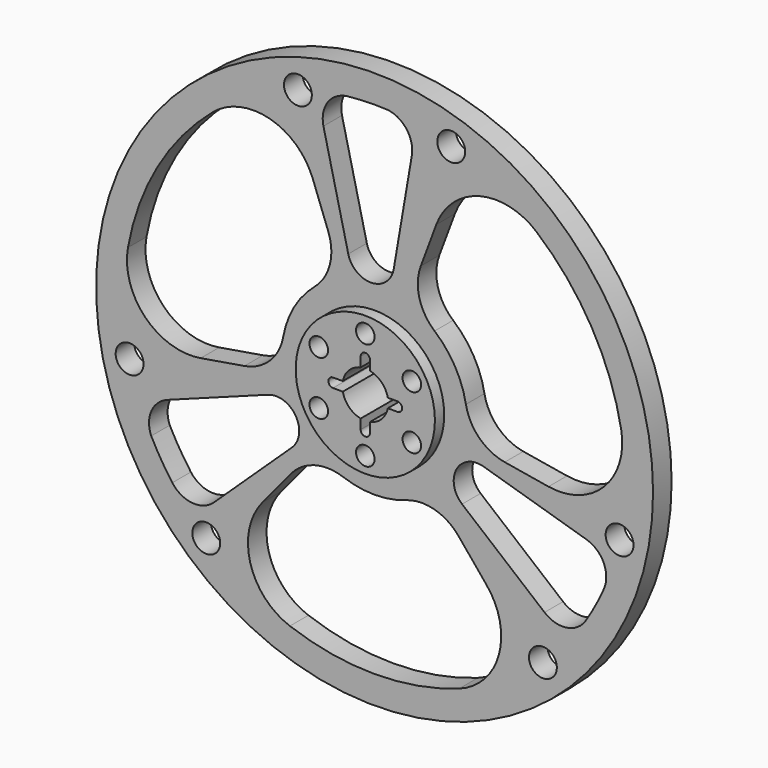
from build123d import *

# Parameters (mm, degrees)
F0_R     = 1524
F0_R_2   = 76.2
F0_R_3   = 381
F1_DEPTH = 63.5
F0_R_4   = 50.8
F2_DEPTH = 127


with BuildPart() as f1:
    # F0 (on Front) → F1 (new body, symmetric)
    with BuildSketch(Plane.XZ):
        Circle(F0_R)
        with Locations((-921.1333688435, -1016.2676206605)):
            Circle(F0_R_2, mode=Mode.SUBTRACT)
        with BuildLine():
            ThreePointArc((-583.5155455446, -215.8833205871), (-431.558837808, -267.9943460408), (-452.2256651945, -427.3031099108))
            Line((-452.2256651945, -427.3031099108), (-879.2271819871, -830.7721964865))
            ThreePointArc((-879.2271819871, -830.7721964865), (-997.7427837156, -871.7695093459), (-1106.8814705239, -809.9999816116))
            ThreePointArc((-1106.8814705239, -809.9999816116), (-1168.4092954393, -718.4053718695), (-1222.3754491891, -622.1614109054))
            ThreePointArc((-1222.3754491891, -622.1614109054), (-1221.6211491859, -501.6878897183), (-1133.6206323261, -419.4057694971))
            Line((-1133.6206323261, -419.4057694971), (-583.5155455446, -215.8833205871))
        make_face(mode=Mode.SUBTRACT)
        with Locations((-1340.6802609573, -289.5910873618)):
            Circle(F0_R_2, mode=Mode.SUBTRACT)
        with BuildLine():
            ThreePointArc((171.6616927457, -478.1174157502), (328.0180828106, -472.1449708565), (459.3380971304, -557.2216694947))
            Line((459.3380971304, -557.2216694947), (613.7334194013, -744.5181723875))
            ThreePointArc((613.7334194013, -744.5181723875), (680.450055377, -1056.720282291), (463.4865704134, -1290.9170225256))
            ThreePointArc((463.4865704134, -1290.9170225256), (0, -1371.6), (-463.4865704134, -1290.9170225256))
            ThreePointArc((-463.4865704134, -1290.9170225256), (-680.450055377, -1056.720282291), (-613.7334194013, -744.5181723875))
            Line((-613.7334194013, -744.5181723875), (-459.3380971304, -557.2216694947))
            ThreePointArc((-459.3380971304, -557.2216694947), (-328.0180828106, -472.1449708565), (-171.6616927457, -478.1174157502))
            ThreePointArc((-171.6616927457, -478.1174157502), (0, -508), (171.6616927457, -478.1174157502))
        make_face(mode=Mode.SUBTRACT)
        with Locations((921.1333688435, -1016.2676206605)):
            Circle(F0_R_2, mode=Mode.SUBTRACT)
        with BuildLine():
            ThreePointArc((478.7182126541, -397.3976256512), (447.8693306459, -239.743743749), (596.1681808961, -177.9873593464))
            Line((596.1681808961, -177.9873593464), (1159.0834179086, -346.0469770554))
            ThreePointArc((1159.0834179086, -346.0469770554), (1253.8459331961, -428.1858424674), (1254.9212964025, -553.5874816462))
            ThreePointArc((1254.9212964025, -553.5874816462), (1206.3619499739, -652.6694459336), (1149.995311693, -747.5274865075))
            ThreePointArc((1149.995311693, -747.5274865075), (1045.28503186, -807.1110041361), (930.0263670412, -772.0413811))
            Line((930.0263670412, -772.0413811), (478.7182126541, -397.3976256512))
        make_face(mode=Mode.SUBTRACT)
        with Locations((1340.6802609573, -289.5910873618)):
            Circle(F0_R_2, mode=Mode.SUBTRACT)
        with BuildLine():
            ThreePointArc((-252.8990727563, 676.4092957883), (-244.8804976255, 520.1444780429), (-328.2309816586, 387.7220946495))
            ThreePointArc((-328.2309816586, 387.7220946495), (-439.9409051225, 254), (-499.8926744043, 90.3953211007))
            ThreePointArc((-499.8926744043, 90.3953211007), (-572.8985804361, -47.9995071864), (-712.2371698868, -119.1876262936))
            Line((-712.2371698868, -119.1876262936), (-951.6383605674, -159.2496461593))
            ThreePointArc((-951.6383605674, -159.2496461593), (-1255.3716368467, -60.9268928175), (-1349.7102208917, 244.0673669719))
            ThreePointArc((-1349.7102208917, 244.0673669719), (-1187.8404438307, 685.8), (-886.2236504783, 1046.8496555537))
            ThreePointArc((-886.2236504783, 1046.8496555537), (-574.9215814697, 1117.6471751085), (-337.904941166, 903.7678185468))
            Line((-337.904941166, 903.7678185468), (-252.8990727563, 676.4092957883))
        make_face(mode=Mode.SUBTRACT)
        with BuildLine():
            ThreePointArc((104.7973328905, 613.2809462384), (-16.3104928379, 507.7380897898), (-143.9425157016, 605.2904692571))
            Line((-143.9425157016, 605.2904692571), (-279.8562359215, 1176.8191735419))
            ThreePointArc((-279.8562359215, 1176.8191735419), (-256.1031494805, 1299.9553518133), (-148.0398258786, 1363.5874632578))
            ThreePointArc((-148.0398258786, 1363.5874632578), (-37.9526545346, 1371.0748178031), (72.3801374961, 1369.6888974129))
            ThreePointArc((72.3801374961, 1369.6888974129), (176.3361173259, 1308.7988938545), (203.5942652848, 1191.4471505971))
            Line((203.5942652848, 1191.4471505971), (104.7973328905, 613.2809462384))
        make_face(mode=Mode.SUBTRACT)
        with Locations((-419.5468921138, 1305.8587080223)):
            Circle(F0_R_2, mode=Mode.SUBTRACT)
        Circle(F0_R_3, mode=Mode.SUBTRACT)
        with BuildLine():
            ThreePointArc((1349.7102208917, 244.0673669719), (1255.3716368467, -60.9268928175), (951.6383605674, -159.2496461593))
            Line((951.6383605674, -159.2496461593), (712.2371698868, -119.1876262936))
            ThreePointArc((712.2371698868, -119.1876262936), (572.8985804361, -47.9995071864), (499.8926744043, 90.3953211007))
            ThreePointArc((499.8926744043, 90.3953211007), (439.9409051225, 254), (328.2309816586, 387.7220946495))
            ThreePointArc((328.2309816586, 387.7220946495), (244.8804976255, 520.1444780429), (252.8990727563, 676.4092957883))
            Line((252.8990727563, 676.4092957883), (337.904941166, 903.7678185468))
            ThreePointArc((337.904941166, 903.7678185468), (574.9215814697, 1117.6471751085), (886.2236504783, 1046.8496555537))
            ThreePointArc((886.2236504783, 1046.8496555537), (1187.8404438307, 685.8), (1349.7102208917, 244.0673669719))
        make_face(mode=Mode.SUBTRACT)
        with Locations((419.5468921138, 1305.8587080223)):
            Circle(F0_R_2, mode=Mode.SUBTRACT)
    extrude(amount=F1_DEPTH, both=True)

    # F0 (on Front) → F2 (join, symmetric)
    with BuildSketch(Plane.XZ):
        Circle(F0_R_3)
        with Locations((-254.7191718346, -147.0621824265)):
            Circle(F0_R_4, mode=Mode.SUBTRACT)
        with Locations((0, -294.1243648529)):
            Circle(F0_R_4, mode=Mode.SUBTRACT)
        with Locations((254.7191718346, -147.0621824265)):
            Circle(F0_R_4, mode=Mode.SUBTRACT)
        with Locations((-254.7191718346, 147.0621824265)):
            Circle(F0_R_4, mode=Mode.SUBTRACT)
        with BuildLine():
            ThreePointArc((-123.1483378182, 25.4), (-88.911959565, 88.911959565), (-25.4, 123.1483378182))
            Line((-25.4, 123.1483378182), (-25.4, 176.540499074))
            ThreePointArc((-25.4, 176.540499074), (0, 201.940499074), (25.4, 176.540499074))
            Line((25.4, 176.540499074), (25.4, 123.1483378182))
            ThreePointArc((25.4, 123.1483378182), (88.911959565, 88.911959565), (123.1483378182, 25.4))
            Line((123.1483378182, 25.4), (176.540499074, 25.4))
            ThreePointArc((176.540499074, 25.4), (201.940499074, 0), (176.540499074, -25.4))
            Line((176.540499074, -25.4), (123.1483378182, -25.4))
            ThreePointArc((123.1483378182, -25.4), (88.911959565, -88.911959565), (25.4, -123.1483378182))
            Line((25.4, -123.1483378182), (25.4, -176.540499074))
            ThreePointArc((25.4, -176.540499074), (0, -201.940499074), (-25.4, -176.540499074))
            Line((-25.4, -176.540499074), (-25.4, -123.1483378182))
            ThreePointArc((-25.4, -123.1483378182), (-88.911959565, -88.911959565), (-123.1483378182, -25.4))
            Line((-123.1483378182, -25.4), (-176.540499074, -25.4))
            ThreePointArc((-176.540499074, -25.4), (-201.940499074, 0), (-176.540499074, 25.4))
            Line((-176.540499074, 25.4), (-123.1483378182, 25.4))
        make_face(mode=Mode.SUBTRACT)
        with Locations((254.7191718346, 147.0621824265)):
            Circle(F0_R_4, mode=Mode.SUBTRACT)
        with Locations((0, 294.1243648529)):
            Circle(F0_R_4, mode=Mode.SUBTRACT)
    extrude(amount=F2_DEPTH, both=True)


solid = f1.part
